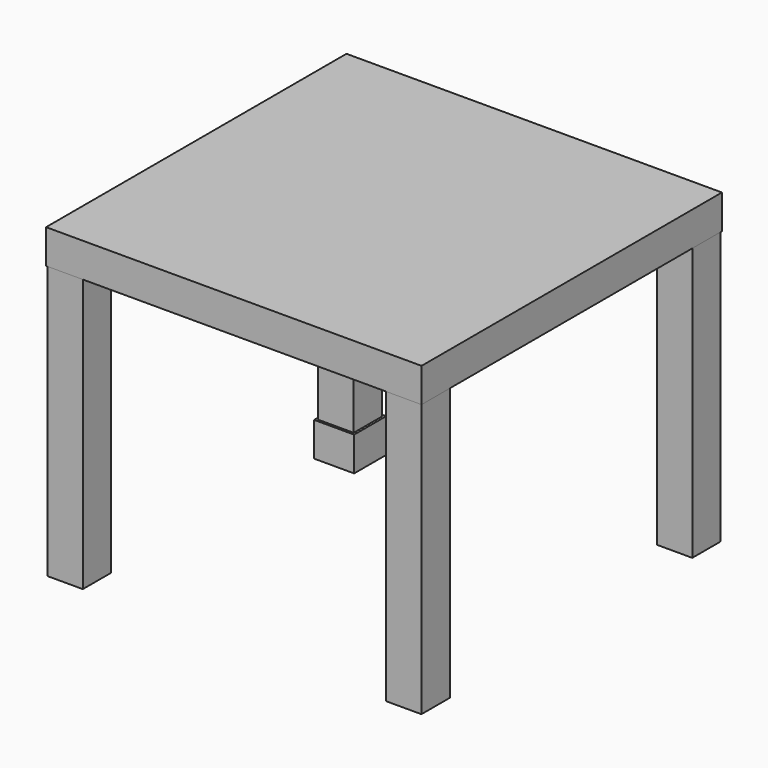
from build123d import *

# Parameters (mm, degrees)
F0_W     = 550
F0_H     = 550
F1_DEPTH = 50
F2_W     = 52
F2_H     = 52
F3_DEPTH = 400
F4_W     = 58.6
F4_H     = 58.6
F5_DEPTH = 50


with BuildPart() as f1:
    # F0 (on Top) → F1 (new body)
    with BuildSketch(Plane.XY):
        Rectangle(F0_W, F0_H)
    extrude(amount=F1_DEPTH)

    # F2 (on face) → F3 (join)
    with BuildSketch(Plane(origin=(0, 0, 0), x_dir=(1, 0, 0), z_dir=(0, 0, -1))):
        with Locations((-248, 248)):
            Rectangle(F2_W, F2_H)
        with Locations((248, 248)):
            Rectangle(F2_W, F2_H)
        with Locations((248, -248)):
            Rectangle(F2_W, F2_H)
        with Locations((-248, -248)):
            Rectangle(F2_W, F2_H)
    extrude(amount=F3_DEPTH)

    # F4 (on face) → F5 (join)
    with BuildSketch(Plane(origin=(0, 0, -400), x_dir=(1, 0, 0), z_dir=(0, 0, -1))):
        with Locations((-248, -248)):
            Rectangle(F4_W, F4_H)
    extrude(amount=F5_DEPTH)


solid = f1.part
